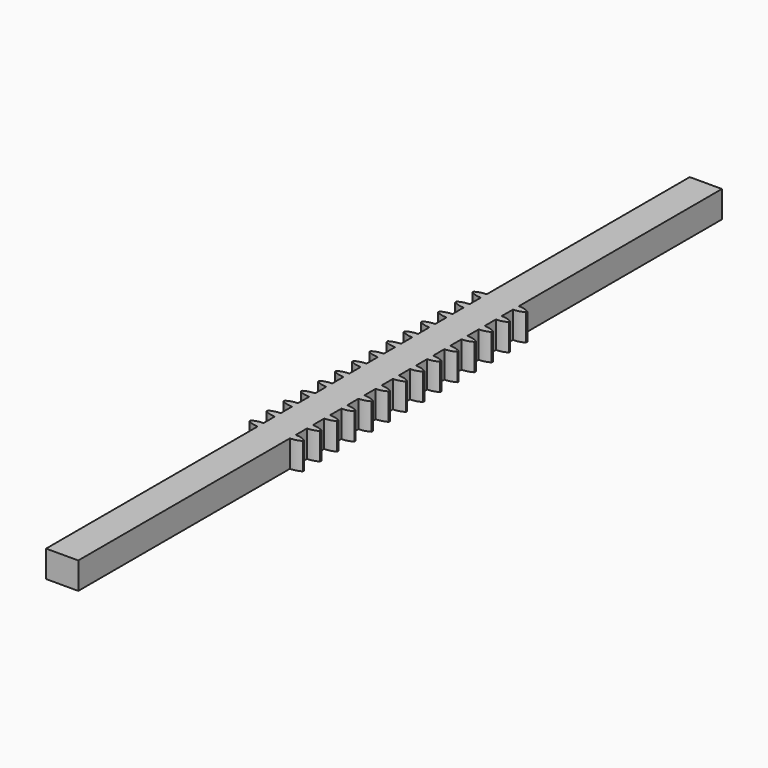
from build123d import *

# Parameters (mm, degrees)
F1_DEPTH = 5


with BuildPart() as f1:
    # F0 (on Top) → F1 (new body)
    with BuildSketch(Plane.XY):
        Polygon((3, 75), (0, 75), (0, -75), (3, -75), (3, -25.685898), (3, -24.314102), (3, -21.685898), (3, -20.314102), (3, -17.685898), (3, -16.314102), (3, -13.685898), (3, -12.314102), (3, -9.685898), (3, -8.314102), (3, -5.685898), (3, -4.314102), (3, -1.685898), (3, -0.314102), (3, 2.314102), (3, 3.685898), (3, 6.314102), (3, 7.685898), (3, 10.314102), (3, 11.685898), (3, 14.314102), (3, 15.685898), (3, 18.314102), (3, 19.685898), (3, 22.314102), (3, 23.685898), (3, 26.314102), (3, 27.685898), align=None)
        with BuildLine():
            ThreePointArc((5, 27.15), (4.035276, 27.549602), (3, 27.685898))
            Line((3, 27.685898), (3, 26.314102))
            ThreePointArc((3, 26.314102), (4.035276, 26.450398), (5, 26.85))
            Line((5, 26.85), (5, 27))
            Line((5, 27), (5, 27.15))
        make_face()
        with BuildLine():
            Line((3, -24.314102), (3, -25.685898))
            ThreePointArc((3, -25.685898), (4.035276, -25.549602), (5, -25.15))
            Line((5, -25.15), (5, -25))
            Line((5, -25), (5, -24.85))
            ThreePointArc((5, -24.85), (4.035276, -24.450398), (3, -24.314102))
        make_face()
        with BuildLine():
            ThreePointArc((5, 23.15), (4.035276, 23.549602), (3, 23.685898))
            Line((3, 23.685898), (3, 22.314102))
            ThreePointArc((3, 22.314102), (4.035276, 22.450398), (5, 22.85))
            Line((5, 22.85), (5, 23))
            Line((5, 23), (5, 23.15))
        make_face()
        with BuildLine():
            Line((3, -20.314102), (3, -21.685898))
            ThreePointArc((3, -21.685898), (4.035276, -21.549602), (5, -21.15))
            Line((5, -21.15), (5, -21))
            Line((5, -21), (5, -20.85))
            ThreePointArc((5, -20.85), (4.035276, -20.450398), (3, -20.314102))
        make_face()
        with BuildLine():
            ThreePointArc((5, 19.15), (4.035276, 19.549602), (3, 19.685898))
            Line((3, 19.685898), (3, 18.314102))
            ThreePointArc((3, 18.314102), (4.035276, 18.450398), (5, 18.85))
            Line((5, 18.85), (5, 19))
            Line((5, 19), (5, 19.15))
        make_face()
        with BuildLine():
            Line((3, -16.314102), (3, -17.685898))
            ThreePointArc((3, -17.685898), (4.035276, -17.549602), (5, -17.15))
            Line((5, -17.15), (5, -17))
            Line((5, -17), (5, -16.85))
            ThreePointArc((5, -16.85), (4.035276, -16.450398), (3, -16.314102))
        make_face()
        with BuildLine():
            ThreePointArc((5, 15.15), (4.035276, 15.549602), (3, 15.685898))
            Line((3, 15.685898), (3, 14.314102))
            ThreePointArc((3, 14.314102), (4.035276, 14.450398), (5, 14.85))
            Line((5, 14.85), (5, 15))
            Line((5, 15), (5, 15.15))
        make_face()
        with BuildLine():
            Line((3, -12.314102), (3, -13.685898))
            ThreePointArc((3, -13.685898), (4.035276, -13.549602), (5, -13.15))
            Line((5, -13.15), (5, -13))
            Line((5, -13), (5, -12.85))
            ThreePointArc((5, -12.85), (4.035276, -12.450398), (3, -12.314102))
        make_face()
        with BuildLine():
            ThreePointArc((5, 11.15), (4.035276, 11.549602), (3, 11.685898))
            Line((3, 11.685898), (3, 10.314102))
            ThreePointArc((3, 10.314102), (4.035276, 10.450398), (5, 10.85))
            Line((5, 10.85), (5, 11))
            Line((5, 11), (5, 11.15))
        make_face()
        with BuildLine():
            Line((3, -8.314102), (3, -9.685898))
            ThreePointArc((3, -9.685898), (4.035276, -9.549602), (5, -9.15))
            Line((5, -9.15), (5, -9))
            Line((5, -9), (5, -8.85))
            ThreePointArc((5, -8.85), (4.035276, -8.450398), (3, -8.314102))
        make_face()
        with BuildLine():
            ThreePointArc((5, 7.15), (4.035276, 7.549602), (3, 7.685898))
            Line((3, 7.685898), (3, 6.314102))
            ThreePointArc((3, 6.314102), (4.035276, 6.450398), (5, 6.85))
            Line((5, 6.85), (5, 7))
            Line((5, 7), (5, 7.15))
        make_face()
        with BuildLine():
            Line((3, -4.314102), (3, -5.685898))
            ThreePointArc((3, -5.685898), (4.035276, -5.549602), (5, -5.15))
            Line((5, -5.15), (5, -5))
            Line((5, -5), (5, -4.85))
            ThreePointArc((5, -4.85), (4.035276, -4.450398), (3, -4.314102))
        make_face()
        with BuildLine():
            ThreePointArc((5, 3.15), (4.035276, 3.549602), (3, 3.685898))
            Line((3, 3.685898), (3, 2.314102))
            ThreePointArc((3, 2.314102), (4.035276, 2.450398), (5, 2.85))
            Line((5, 2.85), (5, 3))
            Line((5, 3), (5, 3.15))
        make_face()
        with BuildLine():
            Line((3, -0.314102), (3, -1.685898))
            ThreePointArc((3, -1.685898), (4.035276, -1.549602), (5, -1.15))
            Line((5, -1.15), (5, -1))
            Line((5, -1), (5, -0.85))
            ThreePointArc((5, -0.85), (4.035276, -0.450398), (3, -0.314102))
        make_face()
    extrude(amount=F1_DEPTH)

    # F2: F1 across face


with BuildPart() as f1_1:
    add(f1.part)
    add(f1.part.mirror(Plane(origin=(0, 0, 2.5), x_dir=(0, -1, 0), z_dir=(-1, 0, 0))))


solid = f1_1.part
